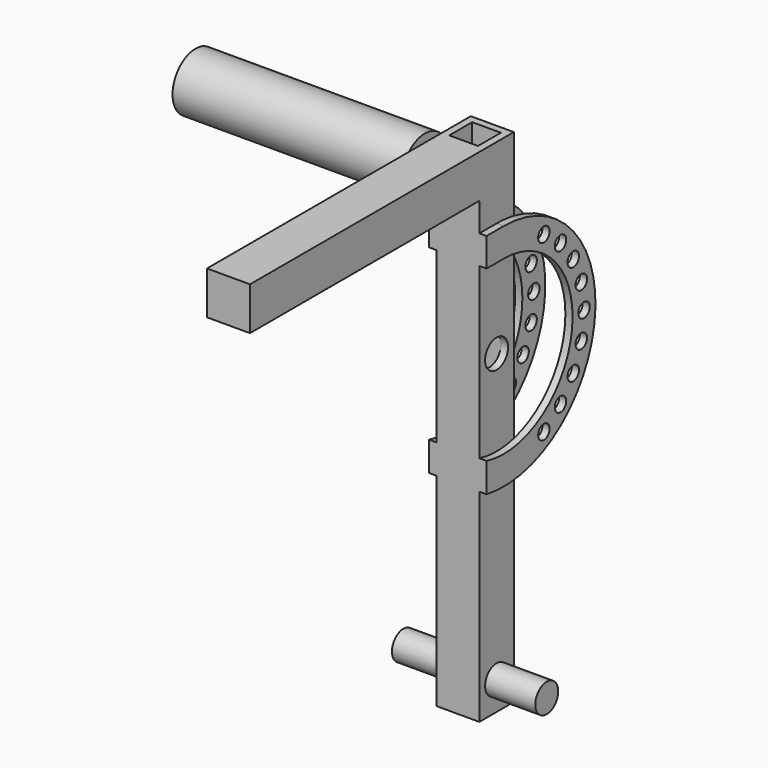
from build123d import *

# Parameters (mm, degrees)
F0_W      = 38.1
F0_H      = 38.1
F0_W_2    = 25.4
F0_H_2    = 25.4
F1_DEPTH  = 444.5
F2_R      = 12.7
F3_DEPTH  = 38.1
F4_R      = 12.7
F5_DEPTH  = 63.5
F6_R      = 6.35
F7_DEPTH  = 6.35
F9_W      = 38.1
F9_H      = 38.1
F10_DEPTH = 254
F11_R     = 25.4
F12_DEPTH = 203.2


with BuildPart() as f1:
    # F0 (on Top) → F1 (new body)
    with BuildSketch(Plane.XY):
        Rectangle(F0_W, F0_H)
        Rectangle(F0_W_2, F0_H_2, mode=Mode.SUBTRACT)
    extrude(amount=F1_DEPTH)

    # F2 (on face) → F3 (cut, through all)
    with BuildSketch(Plane.YZ.offset(19.05)):
        with Locations((0, 25.4)):
            Circle(F2_R)
        with Locations((0, 279.4)):
            Circle(F2_R)
    extrude(amount=-F3_DEPTH, mode=Mode.SUBTRACT)



with BuildPart() as f5:
    # F4 (on Right) → F5 (new body, symmetric)
    with BuildSketch(Plane.YZ):
        with Locations((0, 25.4)):
            Circle(F4_R)
    extrude(amount=F5_DEPTH, both=True)


with BuildPart() as f7:
    # F6 (on face) → F7 (new body)
    with BuildSketch(Plane.YZ.offset(19.05)):
        with BuildLine():
            ThreePointArc((0, 355.6), (75.5926628556, 269.7984729128), (-19.05, 205.6196672547))
            Line((-19.05, 205.6196672547), (-19.05, 179.6019163511))
            ThreePointArc((-19.05, 179.6019163511), (101.1485177814, 269.8324846154), (0, 381))
            Line((0, 381), (-19.05, 381))
            Line((-19.05, 381), (-19.05, 355.6))
            Line((-19.05, 355.6), (0, 355.6))
        make_face()
        with Locations((44.45, 202.4103416036)):
            Circle(F6_R, mode=Mode.SUBTRACT)
        with Locations((62.8617928475, 216.5382071525)):
            Circle(F6_R, mode=Mode.SUBTRACT)
        with Locations((76.9896583964, 234.95)):
            Circle(F6_R, mode=Mode.SUBTRACT)
        with Locations((85.8708059571, 256.3909868904)):
            Circle(F6_R, mode=Mode.SUBTRACT)
        with Locations((85.8708059571, 302.4090131096)):
            Circle(F6_R, mode=Mode.SUBTRACT)
        with Locations((88.9, 279.4)):
            Circle(F6_R, mode=Mode.SUBTRACT)
        with Locations((76.9896583964, 323.85)):
            Circle(F6_R, mode=Mode.SUBTRACT)
        with Locations((62.8617928475, 342.2617928475)):
            Circle(F6_R, mode=Mode.SUBTRACT)
        with Locations((44.45, 356.3896583964)):
            Circle(F6_R, mode=Mode.SUBTRACT)
    extrude(amount=F7_DEPTH)


with BuildPart() as f1_1:
    add(f1.part)

    add(f7.part)  # F8 merges F7
    # F8: F7 across plane
    add(f7.part.mirror(Plane.YZ))

    # F9 (on face) → F10 (join)
    with BuildSketch(Plane.XZ.offset(19.05)):
        with Locations((0, 425.45)):
            Rectangle(F9_W, F9_H)
    extrude(amount=F10_DEPTH)

    # F11 (on face) → F12 (join)
    with BuildSketch(Plane(origin=(-19.05, 0, 0), x_dir=(0, -1, 0), z_dir=(-1, 0, 0))):
        with Locations((31.75, 426.3249635696)):
            Circle(F11_R)
    extrude(amount=F12_DEPTH)


solid = Compound([f5.part, f1_1.part])
